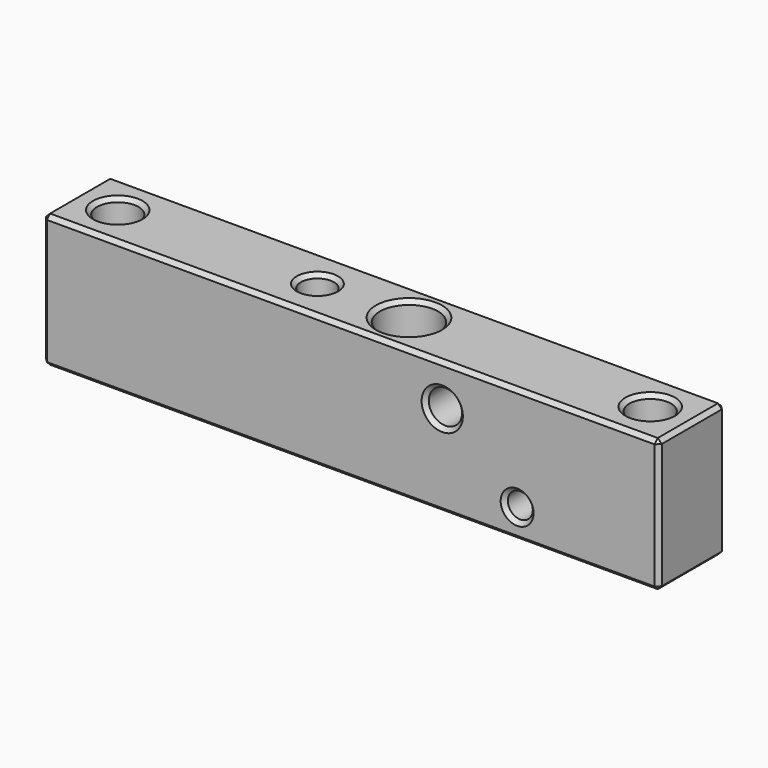
from build123d import *

# Parameters (mm, degrees)
F0_W     = 117.475
F0_H     = 15.875
F1_DEPTH = 25.4
F2_R     = 3.96875
F2_R_2   = 3.175
F2_R_3   = 5.55625
F3_DEPTH = 25.401
F4_R     = 3.175
F4_R_2   = 2.38125
F5_DEPTH = 15.876
F6_SIZE  = 0.762


with BuildPart() as f1:
    # F0 (on Top) → F1 (new body)
    with BuildSketch(Plane.XY):
        with Locations((58.7375, 7.9375)):
            Rectangle(F0_W, F0_H)
    extrude(amount=F1_DEPTH)

    # F2 (on face) → F3 (cut, through all)
    with BuildSketch(Plane.XY.offset(25.4)):
        with Locations((7.9375, 7.9375)):
            Circle(F2_R)
        with Locations((46.0375, 7.9375)):
            Circle(F2_R_2)
        with Locations((63.5, 7.9375)):
            Circle(F2_R_3)
        with Locations((109.5375, 7.9375)):
            Circle(F2_R)
    extrude(amount=-F3_DEPTH, mode=Mode.SUBTRACT)

    # F4 (on face) → F5 (cut, through all)
    with BuildSketch(Plane.XZ):
        with Locations((76.2, 17.4625)):
            Circle(F4_R)
        with Locations((90.4875, 5.5626)):
            Circle(F4_R_2)
    extrude(amount=-F5_DEPTH, mode=Mode.SUBTRACT)

    # F6
    f6_edges = [f1.edges().sort_by_distance(p)[0] for p in [
        (73.025, 0, 17.4625),
        (88.10625, 0, 5.5626),
        (57.94375, 7.9375, 25.4),
        (42.8625, 7.9375, 25.4),
        (105.56875, 7.9375, 25.4),
        (58.7375, 0, 25.4),
        (58.7375, 0, 0),
        (117.475, 0, 12.7),
        (0, 0, 12.7),
        (0, 7.9375, 25.4),
        (0, 15.875, 12.7),
        (0, 7.9375, 0),
        (58.7375, 15.875, 0),
        (3.96875, 7.9375, 0),
        (42.8625, 7.9375, 0),
        (57.94375, 7.9375, 0),
        (58.7375, 15.875, 25.4),
        (73.025, 15.875, 17.4625),
        (88.10625, 15.875, 5.5626),
        (3.96875, 7.9375, 25.4),
        (117.475, 7.9375, 25.4),
        (117.475, 15.875, 12.7),
        (117.475, 7.9375, 0),
        (105.56875, 7.9375, 0),
    ]]
    chamfer(f6_edges, length=F6_SIZE)


solid = f1.part
